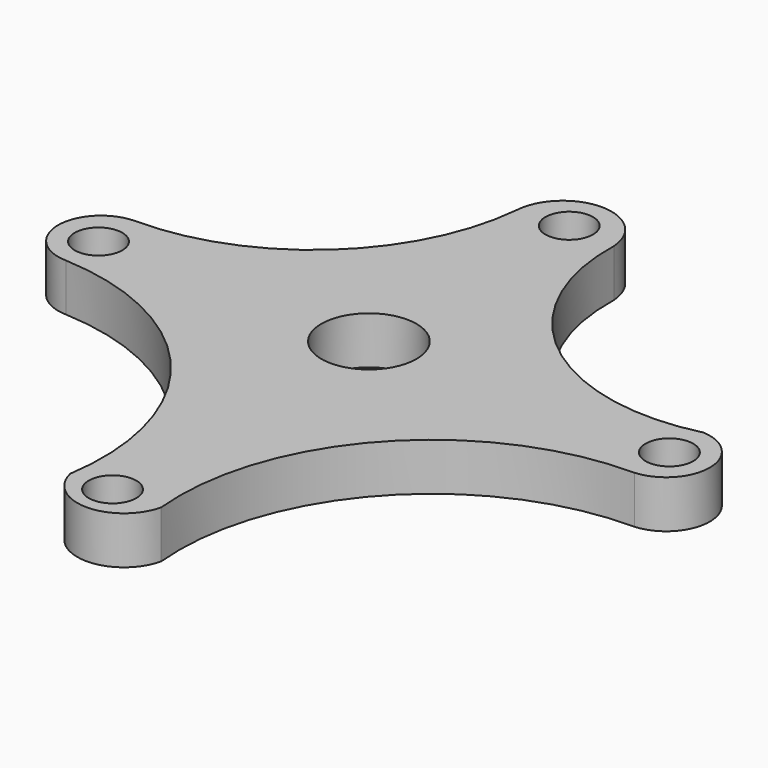
from build123d import *

# Parameters (mm, degrees)
F0_R     = 3.175
F0_R_2   = 6.35
F1_DEPTH = 6.35


with BuildPart() as f1:
    # F0 (on Top) → F1 (new body)
    with BuildSketch(Plane.XY):
        with BuildLine():
            ThreePointArc((-6.496077, 88.24382), (-16.091905, 69.108126), (-36.088916, 61.467823))
            ThreePointArc((-36.088916, 61.467823), (-41.696101, 55.739898), (-36.088916, 50.011974))
            ThreePointArc((-36.088916, 50.011974), (-12.556834, 38.137696), (-5.65169, 12.7))
            ThreePointArc((-5.65169, 12.7), (0.422825, 7.850665), (6.497339, 12.7))
            ThreePointArc((6.497339, 12.7), (15.12193, 38.607897), (40.111084, 49.614482))
            ThreePointArc((40.111084, 49.614482), (45.548522, 55.40514), (40.111084, 61.195798))
            ThreePointArc((40.111084, 61.195798), (16.577125, 66.359769), (6.497339, 88.24382))
            ThreePointArc((6.497339, 88.24382), (0.000631, 94.328291), (-6.496077, 88.24382))
        make_face()
        with Locations((0, 12.7)):
            Circle(F0_R, mode=Mode.SUBTRACT)
        with Locations((-36.088916, 55.472329)):
            Circle(F0_R, mode=Mode.SUBTRACT)
        with Locations((0, 55.472329)):
            Circle(F0_R_2, mode=Mode.SUBTRACT)
        with Locations((0, 88.9)):
            Circle(F0_R, mode=Mode.SUBTRACT)
        with Locations((40.111084, 55.472329)):
            Circle(F0_R, mode=Mode.SUBTRACT)
    extrude(amount=F1_DEPTH)


solid = f1.part
